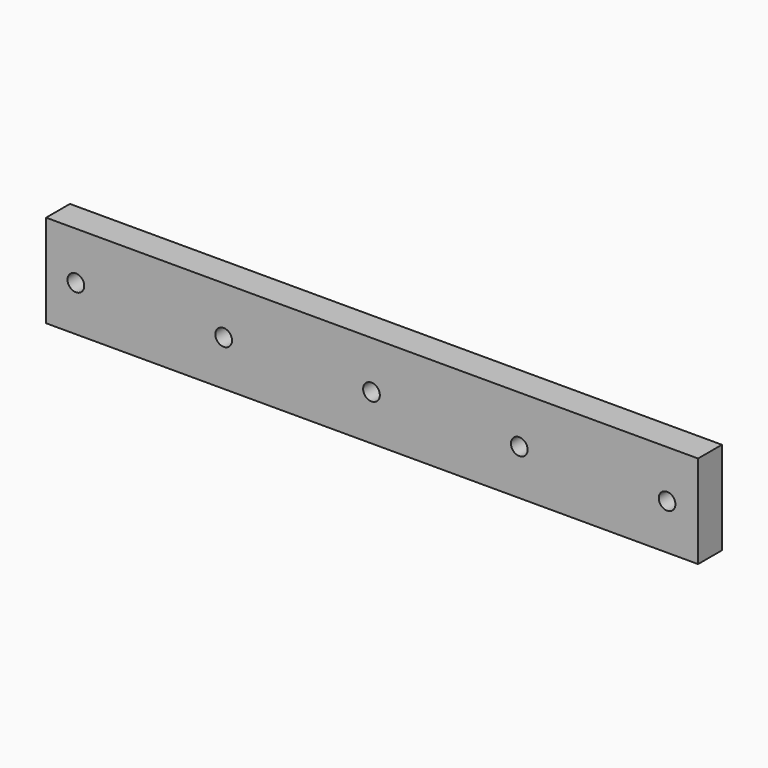
from build123d import *

# Parameters (mm, degrees)
F0_W     = 547
F0_H     = 78
F0_R     = 7
F1_DEPTH = 12.5


with BuildPart() as f1:
    # F0 (on Front) → F1 (new body, symmetric)
    with BuildSketch(Plane.XZ):
        Rectangle(F0_W, F0_H)
        with Locations((-248.5, -1)):
            Circle(F0_R, mode=Mode.SUBTRACT)
        with Locations((-124.5, -1)):
            Circle(F0_R, mode=Mode.SUBTRACT)
        with Locations((-0.5, -1)):
            Circle(F0_R, mode=Mode.SUBTRACT)
        with Locations((123.5, -1)):
            Circle(F0_R, mode=Mode.SUBTRACT)
        with Locations((247.5, -1)):
            Circle(F0_R, mode=Mode.SUBTRACT)
    extrude(amount=F1_DEPTH, both=True)


solid = f1.part
